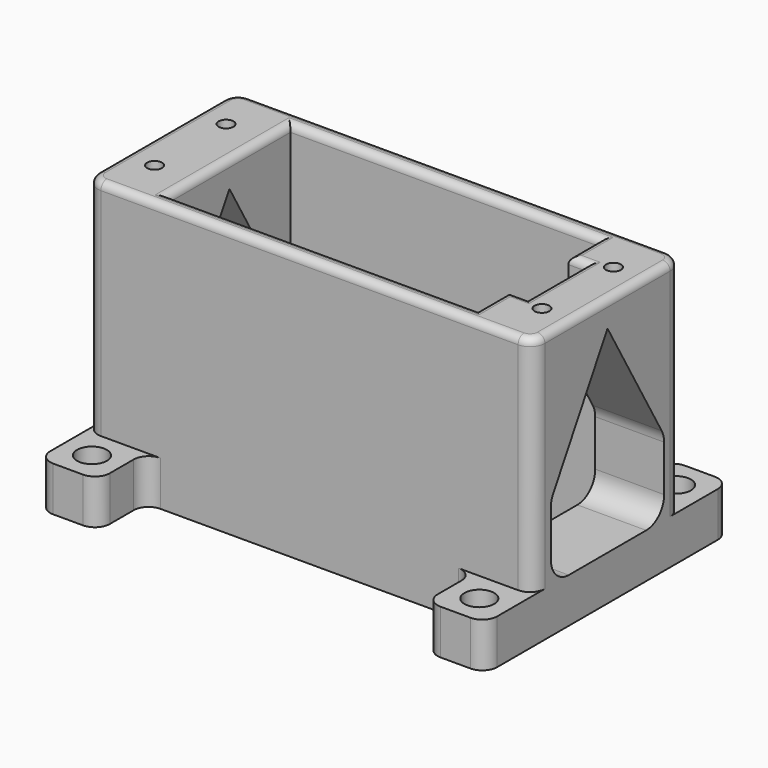
from build123d import *

# Parameters (mm, degrees)
F0_R     = 1
F1_DEPTH = 36
F0_R_2   = 2
F2_DEPTH = 6
F3_R     = 1
F4_R     = 1
F5_DEPTH = 25
F7_DEPTH = 100
F8_R     = 3


with BuildPart() as f1:
    # F0 (on Top) → F1 (new body)
    with BuildSketch(Plane.XY):
        with BuildLine():
            Line((-20, -12.5), (20, -12.5))
            Line((20, -12.5), (22, -12.5))
            Line((22, -12.5), (28, -12.5))
            ThreePointArc((28, -12.5), (29.414214, -11.914214), (30, -10.5))
            Line((30, -10.5), (30, 10.5))
            ThreePointArc((30, 10.5), (29.414214, 11.914214), (28, 12.5))
            Line((28, 12.5), (22, 12.5))
            Line((22, 12.5), (20, 12.5))
            Line((20, 12.5), (-20, 12.5))
            Line((-20, 12.5), (-28, 12.5))
            ThreePointArc((-28, 12.5), (-29.414214, 11.914214), (-30, 10.5))
            Line((-30, 10.5), (-30, -10.5))
            ThreePointArc((-30, -10.5), (-29.414214, -11.914214), (-28, -12.5))
            Line((-28, -12.5), (-22, -12.5))
            Line((-22, -12.5), (-20, -12.5))
        make_face()
        with Locations((-26, -6)):
            Circle(F0_R, mode=Mode.SUBTRACT)
        with Locations((26, -6)):
            Circle(F0_R, mode=Mode.SUBTRACT)
        with Locations((-26, 6)):
            Circle(F0_R, mode=Mode.SUBTRACT)
        Polygon((20.75, -10.25), (-20.75, -10.25), (-20.75, 10.25), (20.75, 10.25), (20.75, 5), (23.25, 5), (23.25, -5), (20.75, -5), align=None, mode=Mode.SUBTRACT)
        with Locations((26, 6)):
            Circle(F0_R, mode=Mode.SUBTRACT)
    extrude(amount=F1_DEPTH)

    # F0 (on Top) → F2 (join)
    with BuildSketch(Plane.XY):
        with BuildLine():
            ThreePointArc((-22, -14.5), (-21.414214, -13.085786), (-20, -12.5))
            Line((-20, -12.5), (-22, -12.5))
            Line((-22, -12.5), (-28, -12.5))
            ThreePointArc((-28, -12.5), (-29.414214, -11.914214), (-30, -10.5))
            Line((-30, -10.5), (-30, -12.5))
            Line((-30, -12.5), (-30, -18.5))
            ThreePointArc((-30, -18.5), (-29.414214, -19.914214), (-28, -20.5))
            Line((-28, -20.5), (-24, -20.5))
            ThreePointArc((-24, -20.5), (-22.585786, -19.914214), (-22, -18.5))
            Line((-22, -18.5), (-22, -14.5))
        make_face()
        with Locations((-26, -16.5)):
            Circle(F0_R_2, mode=Mode.SUBTRACT)
        with BuildLine():
            Line((22, -12.5), (20, -12.5))
            ThreePointArc((20, -12.5), (21.414214, -13.085786), (22, -14.5))
            Line((22, -14.5), (22, -18.5))
            ThreePointArc((22, -18.5), (22.585786, -19.914214), (24, -20.5))
            Line((24, -20.5), (28, -20.5))
            ThreePointArc((28, -20.5), (29.414214, -19.914214), (30, -18.5))
            Line((30, -18.5), (30, -12.5))
            Line((30, -12.5), (30, -10.5))
            ThreePointArc((30, -10.5), (29.414214, -11.914214), (28, -12.5))
            Line((28, -12.5), (22, -12.5))
        make_face()
        with Locations((26, -16.5)):
            Circle(F0_R_2, mode=Mode.SUBTRACT)
        with BuildLine():
            ThreePointArc((28, 12.5), (29.414214, 11.914214), (30, 10.5))
            Line((30, 10.5), (30, 12.5))
            Line((30, 12.5), (30, 18.5))
            ThreePointArc((30, 18.5), (29.414214, 19.914214), (28, 20.5))
            Line((28, 20.5), (24, 20.5))
            ThreePointArc((24, 20.5), (22.585786, 19.914214), (22, 18.5))
            Line((22, 18.5), (22, 14.5))
            ThreePointArc((22, 14.5), (21.414214, 13.085786), (20, 12.5))
            Line((20, 12.5), (22, 12.5))
            Line((22, 12.5), (28, 12.5))
        make_face()
        with Locations((26, 16.5)):
            Circle(F0_R_2, mode=Mode.SUBTRACT)
        with BuildLine():
            Line((-30, 12.5), (-30, 10.5))
            ThreePointArc((-30, 10.5), (-29.414214, 11.914214), (-28, 12.5))
            Line((-28, 12.5), (-20, 12.5))
            ThreePointArc((-20, 12.5), (-21.414214, 13.085786), (-22, 14.5))
            Line((-22, 14.5), (-22, 18.5))
            ThreePointArc((-22, 18.5), (-22.585786, 19.914214), (-24, 20.5))
            Line((-24, 20.5), (-28, 20.5))
            ThreePointArc((-28, 20.5), (-29.414214, 19.914214), (-30, 18.5))
            Line((-30, 18.5), (-30, 12.5))
        make_face()
        with Locations((-26, 16.5)):
            Circle(F0_R_2, mode=Mode.SUBTRACT)
        Polygon((20.75, 0), (20.75, -5), (23.25, -5), (23.25, 5), (20.75, 5), align=None)
    extrude(amount=F2_DEPTH)

    # F3
    f3_edges = [f1.edges().sort_by_distance(p)[0] for p in [
        (0, 10.25, 36),
        (-20.75, 0, 36),
        (20.75, 7.625, 36),
        (20.75, -7.625, 36),
        (0, -10.25, 36),
        (22, -5, 36),
        (23.25, 0, 36),
        (22, 5, 36),
    ]]
    fillet(f3_edges, radius=F3_R)

    # F4
    f4_edges = [f1.edges().sort_by_distance(p)[0] for p in [
        (30, 0, 36),
        (0, 12.5, 36),
        (0, -12.5, 36),
        (29.414214, -11.914214, 36),
        (29.414214, 11.914214, 36),
        (-30, 0, 36),
        (-29.414214, 11.914214, 36),
        (-29.414214, -11.914214, 36),
    ]]
    fillet(f4_edges, radius=F4_R)

    # F0 (on Top) → F5 (join)
    with BuildSketch(Plane.XY):
        with Locations((-26, 6)):
            Circle(F0_R)
        with Locations((-26, -6)):
            Circle(F0_R)
        with Locations((26, -6)):
            Circle(F0_R)
        with Locations((26, 6)):
            Circle(F0_R)
    extrude(amount=F5_DEPTH)

    # F6 (on face) → F7 (cut)
    with BuildSketch(Plane.YZ.offset(30)):
        Polygon((-9.5, 6), (9.5, 6), (9.5, 16), (0, 32.49523), (-9.5, 16), align=None)
    extrude(amount=-F7_DEPTH, mode=Mode.SUBTRACT)

    # F8
    f8_edges = [f1.edges().sort_by_distance(p)[0] for p in [
        (25.375, -9.5, 6),
        (-25.375, -9.5, 6),
        (25.375, 9.5, 6),
        (-25.375, 9.5, 6),
        (25.375, 9.5, 16),
        (-25.375, 9.5, 16),
        (25.375, -9.5, 16),
        (-25.375, -9.5, 16),
    ]]
    fillet(f8_edges, radius=F8_R)


solid = f1.part
